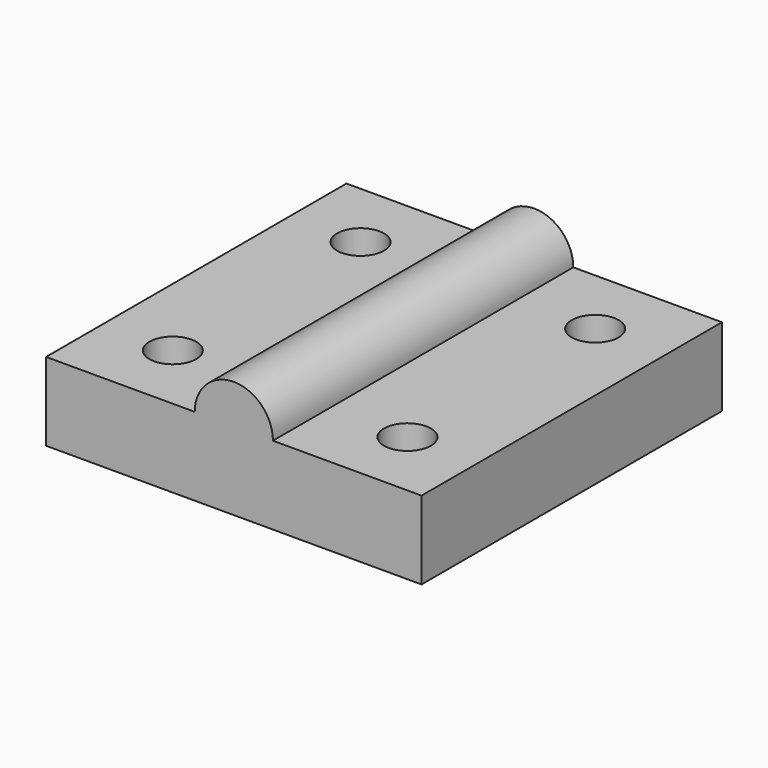
from build123d import *

# Parameters (mm, degrees)
F0_W     = 48
F0_H     = 48
F1_DEPTH = 10
F3_DEPTH = 48
F5_D     = 6


with BuildPart() as f1:
    # F0 (on Top) → F1 (new body)
    with BuildSketch(Plane.XY):
        with Locations((24, 24)):
            Rectangle(F0_W, F0_H)
    extrude(amount=F1_DEPTH)

    # F2 (on face) → F3 (join, through all)
    with BuildSketch(Plane.XZ):
        with BuildLine():
            Line((19, 10), (29, 10))
            ThreePointArc((29, 10), (24, 15), (19, 10))
        make_face()
    extrude(amount=-F3_DEPTH)

    # F5 (through all)
    with Locations(Plane(origin=(0, 0, 0), x_dir=(1, 0, 0), z_dir=(0, 0, -1))):
        with Locations((9, -9), (9, -39), (39, -39), (39, -9)):
            Hole(F5_D / 2)


solid = f1.part
